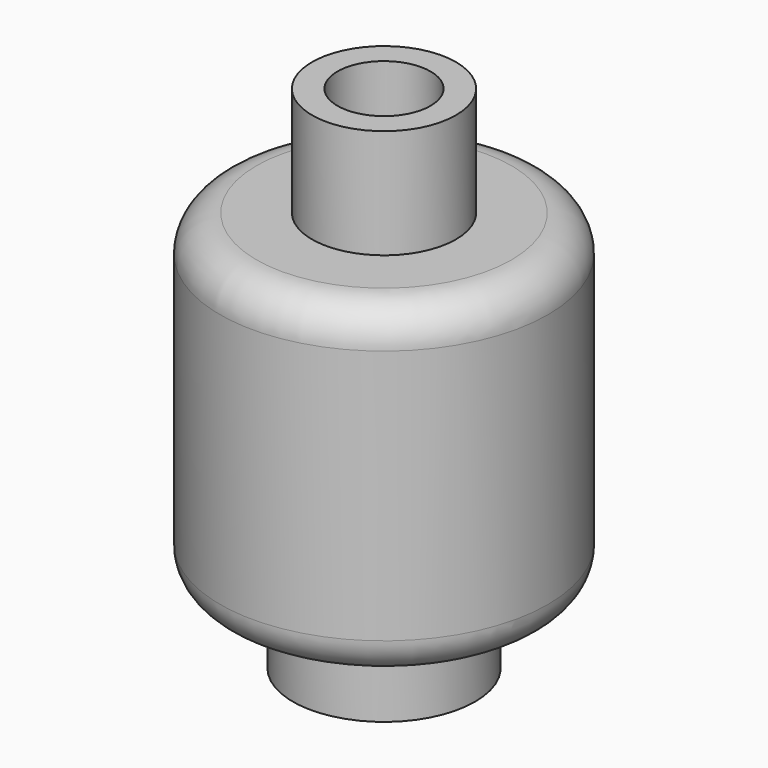
from build123d import *

# Parameters (mm, degrees)
F0_R      = 2.5
F1_DEPTH  = 2
F2_R      = 4.5
F3_DEPTH  = 9
F4_R      = 1.718291
F5_DEPTH  = 6
F6_R      = 1
F7_R      = 1.975543
F8_DEPTH  = 3
F9_R      = 1.277831
F10_DEPTH = 2


with BuildPart() as f1:
    # F0 (on Top) → F1 (new body)
    with BuildSketch(Plane.XY):
        Circle(F0_R)
    extrude(amount=F1_DEPTH)

    # F2 (on face) → F3 (join)
    with BuildSketch(Plane.XY.offset(2)):
        Circle(F2_R)
    extrude(amount=F3_DEPTH)

    # F4 (on face) → F5 (cut)
    with BuildSketch(Plane(origin=(0, 0, 0), x_dir=(1, 0, 0), z_dir=(0, 0, -1))):
        Circle(F4_R)
    extrude(amount=-F5_DEPTH, mode=Mode.SUBTRACT)

    # F6
    f6_edges = [f1.edges().sort_by_distance(p)[0] for p in [
        (-4.5, 0, 11),
        (-4.5, 0, 2),
    ]]
    fillet(f6_edges, radius=F6_R)

    # F7 (on face) → F8 (join)
    with BuildSketch(Plane.XY.offset(11)):
        Circle(F7_R)
    extrude(amount=F8_DEPTH)

    # F9 (on face) → F10 (cut)
    with BuildSketch(Plane.XY.offset(14)):
        Circle(F9_R)
    extrude(amount=-F10_DEPTH, mode=Mode.SUBTRACT)


solid = f1.part
